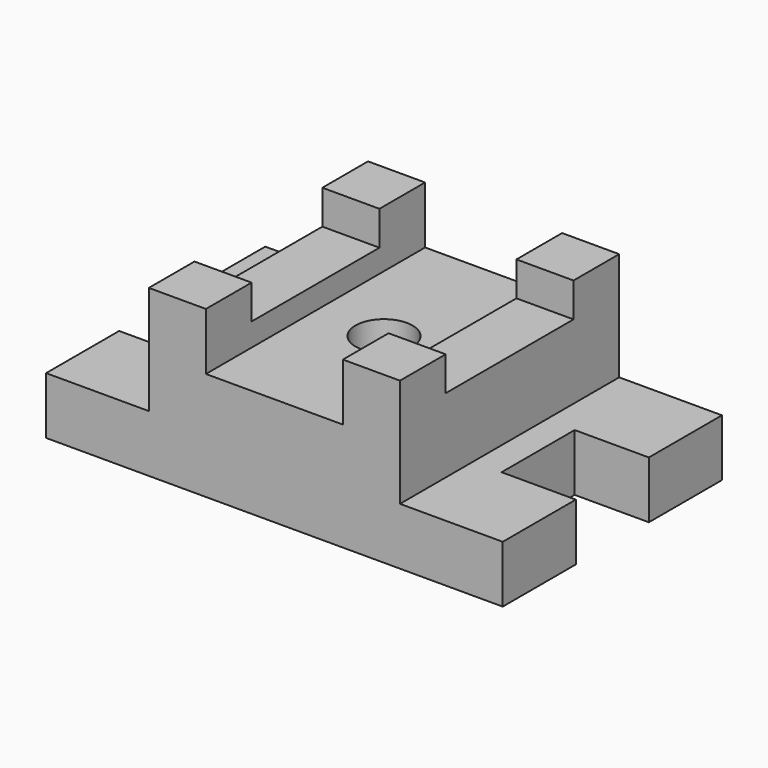
from build123d import *

# Parameters (mm, degrees)
F0_W     = 31.75
F0_H     = 31.75
F0_R     = 15.875
F0_H_2   = 88.9
F1_DEPTH = 92.075
F2_W     = 76.2
F2_H     = 31.8338968277
F2_W_2   = 57.15
F2_H_2   = 60.325
F3_DEPTH = 152.401
F4_W     = 88.9
F4_H     = 19.05
F5_DEPTH = 196.851


with BuildPart() as f1:
    # F0 (on Top) → F1 (new body)
    with BuildSketch(Plane.XY):
        with Locations((-53.975, 60.325)):
            Rectangle(F0_W, F0_H)
        with Locations((53.975, 60.325)):
            Rectangle(F0_W, F0_H)
        with Locations((-53.975, -60.325)):
            Rectangle(F0_W, F0_H)
        with Locations((53.975, -60.325)):
            Rectangle(F0_W, F0_H)
        Polygon((-127, -76.2), (-69.85, -76.2), (-69.85, -44.45), (-69.85, 44.45), (-69.85, 76.2), (-127, 76.2), (-127, 25.4), (-85.725, 25.4), (-85.725, -25.4), (-127, -25.4), align=None)
        Polygon((69.85, -44.45), (69.85, -76.2), (127, -76.2), (127, -25.4), (85.725, -25.4), (85.725, 25.4), (127, 25.4), (127, 76.2), (69.85, 76.2), (69.85, 44.45), align=None)
        Polygon((-38.1, -44.45), (-38.1, -76.2), (38.1, -76.2), (38.1, -44.45), (38.1, 44.45), (38.1, 76.2), (-38.1, 76.2), (-38.1, 44.45), align=None)
        Circle(F0_R, mode=Mode.SUBTRACT)
        with Locations((-53.975, 0)):
            Rectangle(F0_W, F0_H_2)
        with Locations((53.975, 0)):
            Rectangle(F0_W, F0_H_2)
    extrude(amount=F1_DEPTH)

    # F2 (on face) → F3 (cut, through all)
    with BuildSketch(Plane.XZ.offset(76.2)):
        with Locations((0, 76.1580515862)):
            Rectangle(F2_W, F2_H)
        with Locations((-98.425, 61.9125)):
            Rectangle(F2_W_2, F2_H_2)
        with Locations((98.425, 61.9125)):
            Rectangle(F2_W_2, F2_H_2)
    extrude(amount=-F3_DEPTH, mode=Mode.SUBTRACT)

    # F4 (on face) → F5 (cut, through all)
    with BuildSketch(Plane.YZ.offset(69.85)):
        with Locations((0, 82.55)):
            Rectangle(F4_W, F4_H)
    extrude(amount=-F5_DEPTH, mode=Mode.SUBTRACT)


solid = f1.part
